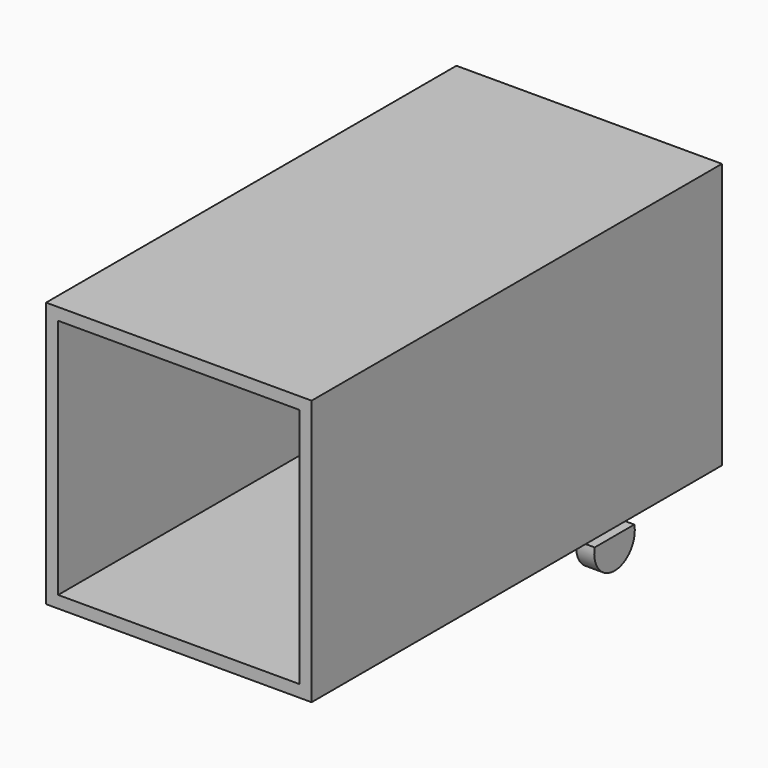
from build123d import *

# Parameters (mm, degrees)
F0_W     = 2200
F0_H     = 2200
F0_W_2   = 2000
F0_H_2   = 2000
F1_DEPTH = 2125
F3_DEPTH = 75


with BuildPart() as f1:
    # F0 (on Front) → F1 (new body, symmetric)
    with BuildSketch(Plane.XZ):
        with Locations((1000, 1100)):
            Rectangle(F0_W, F0_H)
        with Locations((1000, 1100)):
            Rectangle(F0_W_2, F0_H_2, mode=Mode.SUBTRACT)
    extrude(amount=F1_DEPTH, both=True)

    # F2 (on face) → F3 (join, symmetric)
    with BuildSketch(Plane.YZ.offset(2100)):
        with BuildLine():
            ThreePointArc((713.471263, 0), (896.436303, -253.206423), (1128.77031, -44.374894))
            ThreePointArc((1128.77031, -44.374894), (1127.581576, -22.061149), (1124.028832, 0))
            Line((1124.028832, 0), (713.471263, 0))
        make_face()
    extrude(amount=F3_DEPTH, both=True)


solid = f1.part
